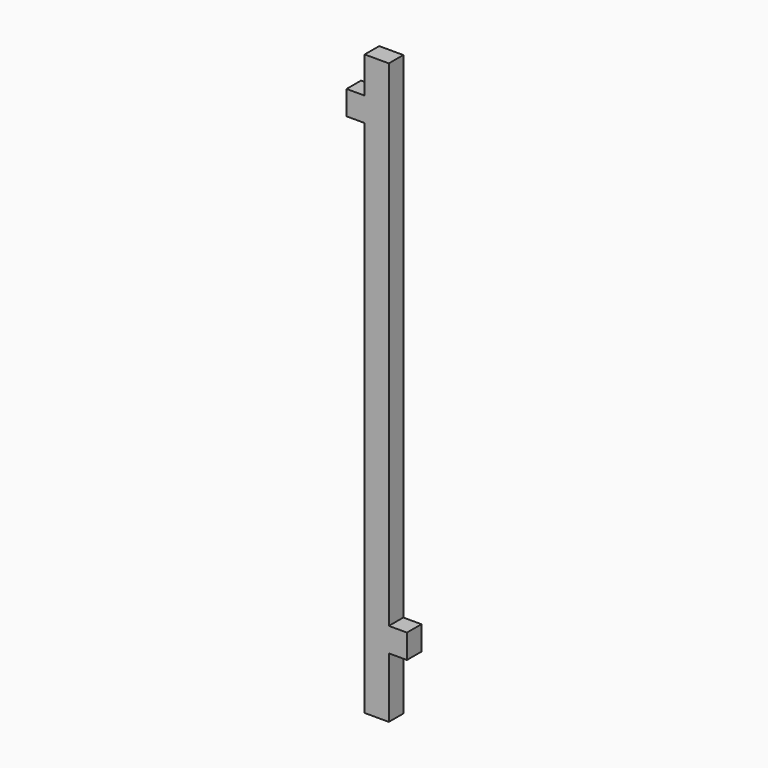
from build123d import *

# Parameters (mm, degrees)
F0_W     = 25.4
F0_H     = 609.6
F1_DEPTH = 19.05
F2_W     = 19.05
F2_H     = 25.4
F3_DEPTH = 19.05
F4_W     = 19.05
F4_H     = 25.4
F5_DEPTH = 19.05


with BuildPart() as f1:
    # F0 (on Front) → F1 (new body)
    with BuildSketch(Plane.XZ):
        with Locations((-12.7, -304.8)):
            Rectangle(F0_W, F0_H)
    extrude(amount=F1_DEPTH)

    # F2 (on face) → F3 (join)
    with BuildSketch(Plane(origin=(-25.4, 0, 0), x_dir=(0, -1, 0), z_dir=(-1, 0, 0))):
        with Locations((9.525, -50.8)):
            Rectangle(F2_W, F2_H)
    extrude(amount=F3_DEPTH)

    # F4 (on face) → F5 (join)
    with BuildSketch(Plane.YZ):
        with Locations((-9.525, -533.4)):
            Rectangle(F4_W, F4_H)
    extrude(amount=F5_DEPTH)


solid = f1.part
